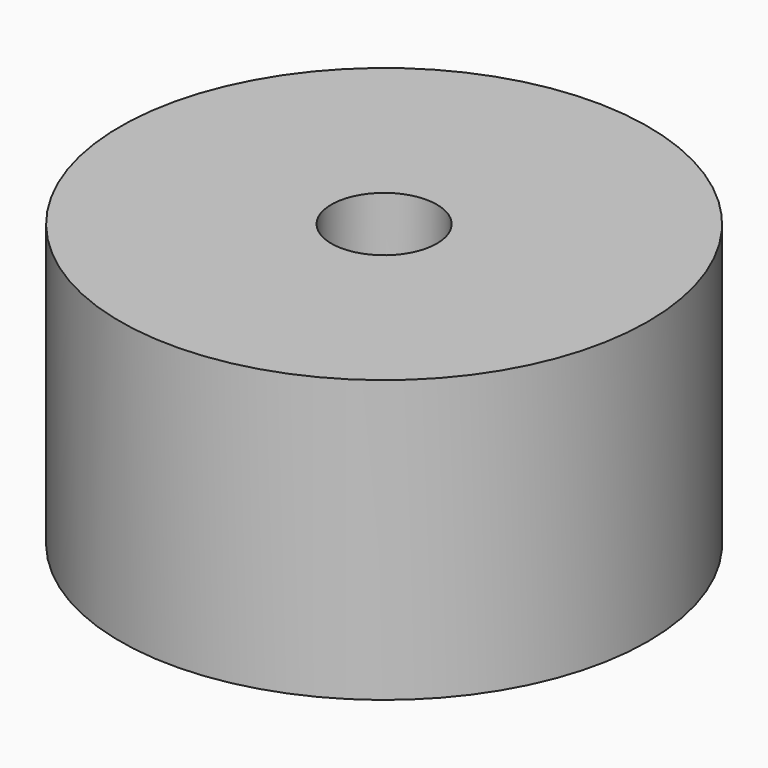
from build123d import *

# Parameters (mm, degrees)
F0_R     = 7.5
F1_DEPTH = 3
F2_R     = 7.5
F3_DEPTH = 5
F0_R_2   = 1.5
F4_DEPTH = 25


with BuildPart() as f1:
    # F0 (on Top) → F1 (new body)
    with BuildSketch(Plane.XY):
        with Locations((7.5, 7.5)):
            Circle(F0_R)
        Polygon((7.5, 10.9641016151), (10.5, 9.2320508076), (10.5, 5.7679491924), (7.5, 4.0358983849), (4.5, 5.7679491924), (4.5, 9.2320508076), align=None, mode=Mode.SUBTRACT)
    extrude(amount=F1_DEPTH)

    # F2 (on face) → F3 (join)
    with BuildSketch(Plane.XY.offset(3)):
        with Locations((7.5, 7.5)):
            Circle(F2_R)
        Polygon((4.5, 5.7679491924), (4.5, 9.2320508076), (7.5, 10.9641016151), (10.5, 9.2320508076), (10.5, 5.7679491924), (7.5, 4.0358983849), align=None, mode=Mode.SUBTRACT)
        Polygon((7.5, 10.9641016151), (4.5, 9.2320508076), (4.5, 5.7679491924), (7.5, 4.0358983849), (10.5, 5.7679491924), (10.5, 9.2320508076), align=None)
    extrude(amount=F3_DEPTH)

    # F0 (on Top) → F4 (cut)
    with BuildSketch(Plane.XY):
        with Locations((7.5, 7.5)):
            Circle(F0_R_2)
    extrude(amount=F4_DEPTH, mode=Mode.SUBTRACT)


solid = f1.part
